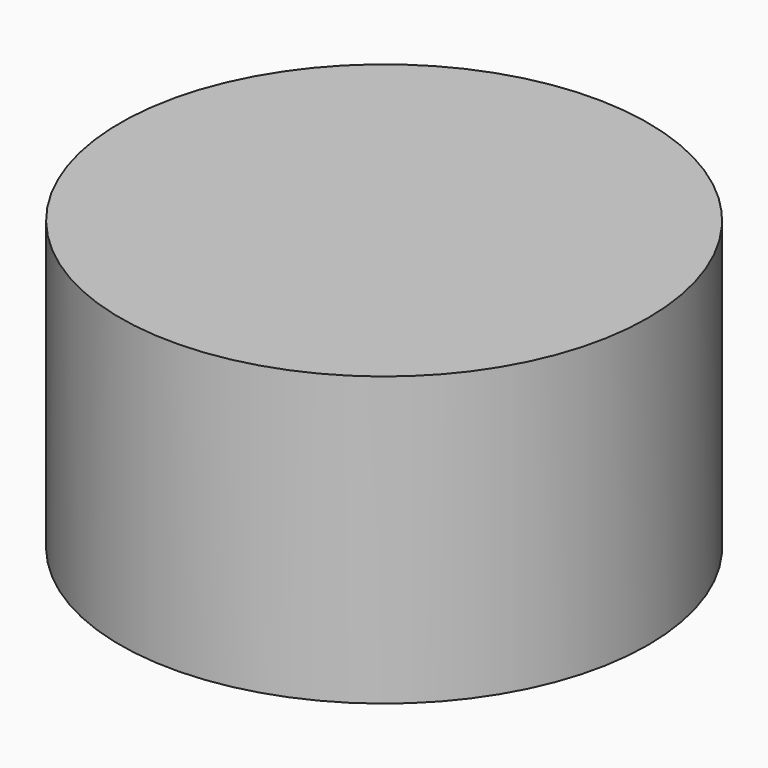
from build123d import *

# Parameters (mm, degrees)
CYLINDER_R        = 9
CYLINDER_DEPTH    = 10
CYLINDER001_R     = 11
CYLINDER001_DEPTH = 12


with BuildPart() as cylinder:
    # Cylinder → Cylinder (new body)
    with BuildSketch(Plane.XY):
        Circle(CYLINDER_R)
    extrude(amount=CYLINDER_DEPTH)


with BuildPart() as cut:
    # Cylinder001 → Cylinder001 (new body)
    with BuildSketch(Plane.XY):
        Circle(CYLINDER001_R)
    extrude(amount=CYLINDER001_DEPTH)

    # Cut: cut Cylinder
    add(cylinder.part, mode=Mode.SUBTRACT)


solid = cut.part
